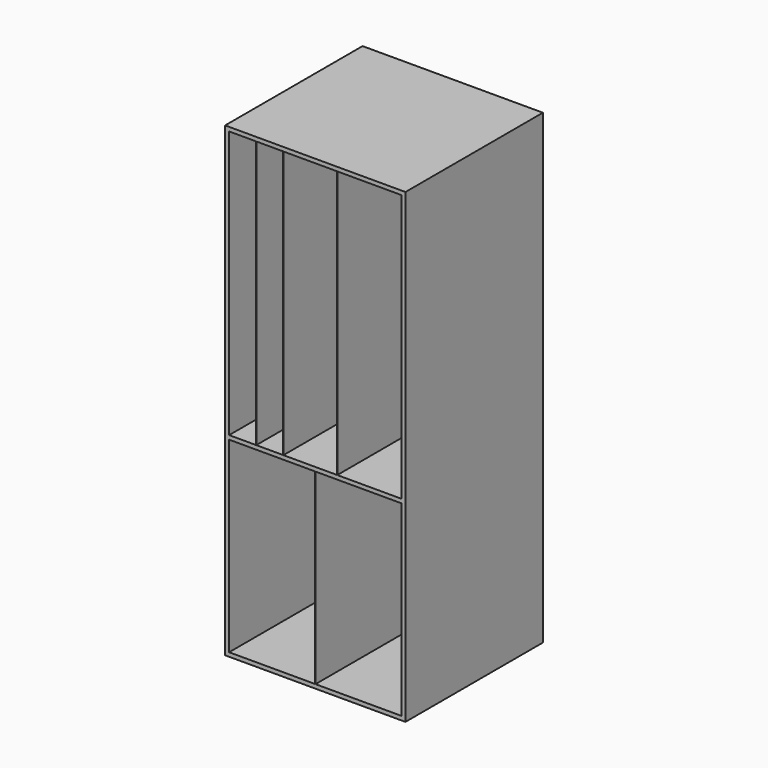
from build123d import *

# Parameters (mm, degrees)
F0_W     = 1.905
F0_H     = 889
F0_H_2   = 1270
F0_W_2   = 127
F0_H_3   = 19.05
F1_DEPTH = 812.8
F2_W     = 856.615
F2_H     = 2216.15
F3_DEPTH = 3.175


with BuildPart() as f1:
    # F0 (on Front) → F1 (new body)
    with BuildSketch(Plane.XZ):
        Polygon((-409.2575, 1079.5), (-409.2575, 1098.55), (-428.3075, 1098.55), (-428.3075, -1117.6), (-409.2575, -1117.6), (-409.2575, -1098.55), (-409.2575, -209.55), (-409.2575, -190.5), align=None)
        Polygon((-409.2575, -1098.55), (-409.2575, -1117.6), (409.2575, -1117.6), (409.2575, -1098.55), (0.9525, -1098.55), (-0.9525, -1098.55), align=None)
        Polygon((428.3075, 1098.55), (409.2575, 1098.55), (409.2575, 1079.5), (409.2575, 463.55), (409.2575, 419.1), (409.2575, -190.5), (409.2575, -209.55), (409.2575, -342.9), (409.2575, -1098.55), (409.2575, -1117.6), (428.3075, -1117.6), align=None)
        Polygon((-282.2575, -190.5), (-409.2575, -190.5), (-409.2575, -209.55), (-0.9525, -209.55), (0.9525, -209.55), (409.2575, -209.55), (409.2575, -190.5), (104.4575, -190.5), (102.5525, -190.5), (-151.4475, -190.5), (-153.3525, -190.5), (-280.3525, -190.5), align=None)
        Polygon((-282.2575, -190.5), (-409.2575, -190.5), (-409.2575, -209.55), (-0.9525, -209.55), (0.9525, -209.55), (409.2575, -209.55), (409.2575, -190.5), (104.4575, -190.5), (102.5525, -190.5), (-151.4475, -190.5), (-153.3525, -190.5), (-280.3525, -190.5), align=None)
        with Locations((0, -654.05)):
            Rectangle(F0_W, F0_H)
        with Locations((-281.305, 444.5)):
            Rectangle(F0_W, F0_H_2)
        with Locations((-152.4, 444.5)):
            Rectangle(F0_W, F0_H_2)
        with Locations((103.505, 444.5)):
            Rectangle(F0_W, F0_H_2)
        Polygon((102.5525, 1098.55), (-153.3525, 1098.55), (-153.3525, 1079.5), (-151.4475, 1079.5), (102.5525, 1079.5), align=None)
        Polygon((409.2575, 1098.55), (102.5525, 1098.55), (102.5525, 1079.5), (104.4575, 1079.5), (409.2575, 1079.5), align=None)
        Polygon((-153.3525, 1098.55), (-282.2575, 1098.55), (-282.2575, 1079.5), (-280.3525, 1079.5), (-153.3525, 1079.5), align=None)
        with Locations((-345.7575, 1089.025)):
            Rectangle(F0_W_2, F0_H_3)
    extrude(amount=F1_DEPTH)

    # F2 (on face) → F3 (join)
    with BuildSketch(Plane(origin=(0, 0, 0), x_dir=(-1, 0, 0), z_dir=(0, 1, 0))):
        with Locations((0, -9.525)):
            Rectangle(F2_W, F2_H)
    extrude(amount=F3_DEPTH)


solid = f1.part
